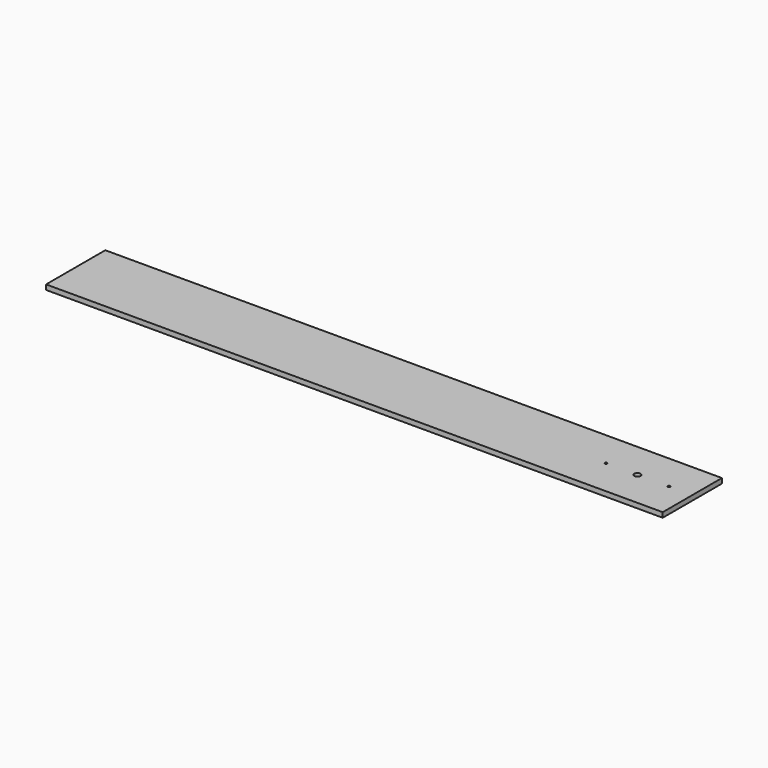
from build123d import *

# Parameters (mm, degrees)
F0_W     = 250
F0_H     = 30
F0_R     = 0.5
F0_R_2   = 1.25
F1_DEPTH = 1


with BuildPart() as f1:
    # F0 (on Top) → F1 (new body, symmetric)
    with BuildSketch(Plane.XY):
        Rectangle(F0_W, F0_H)
        with Locations((90, 0)):
            Circle(F0_R, mode=Mode.SUBTRACT)
        with Locations((102.75, 0)):
            Circle(F0_R_2, mode=Mode.SUBTRACT)
        with Locations((115.5, 0)):
            Circle(F0_R, mode=Mode.SUBTRACT)
    extrude(amount=F1_DEPTH, both=True)


solid = f1.part
